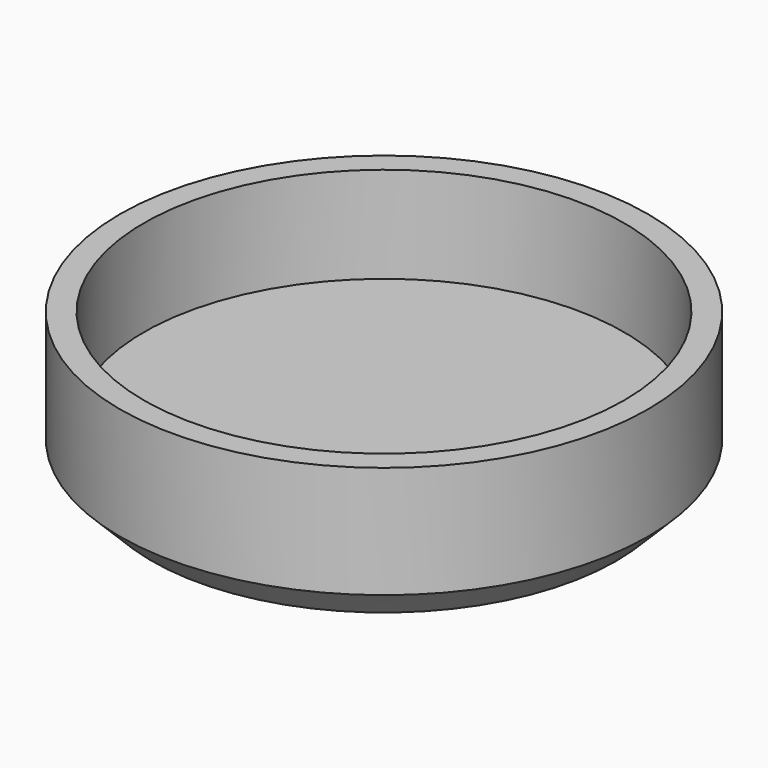
from build123d import *

# Parameters (mm, degrees)
F0_R     = 16.5
F1_DEPTH = 3
F2_R     = 16.5
F2_R_2   = 15
F3_DEPTH = 6
F4_SIZE  = 2


with BuildPart() as f1:
    # F0 (on Top) → F1 (new body)
    with BuildSketch(Plane.XY):
        Circle(F0_R)
    extrude(amount=F1_DEPTH)

    # F2 (on face) → F3 (join)
    with BuildSketch(Plane.XY.offset(3)):
        Circle(F2_R)
        Circle(F2_R_2, mode=Mode.SUBTRACT)
    extrude(amount=F3_DEPTH)

    # F4
    f4_edges = [f1.edges().sort_by_distance(p)[0] for p in [
        (-16.5, 0, 0),
    ]]
    chamfer(f4_edges, length=F4_SIZE)


solid = f1.part
